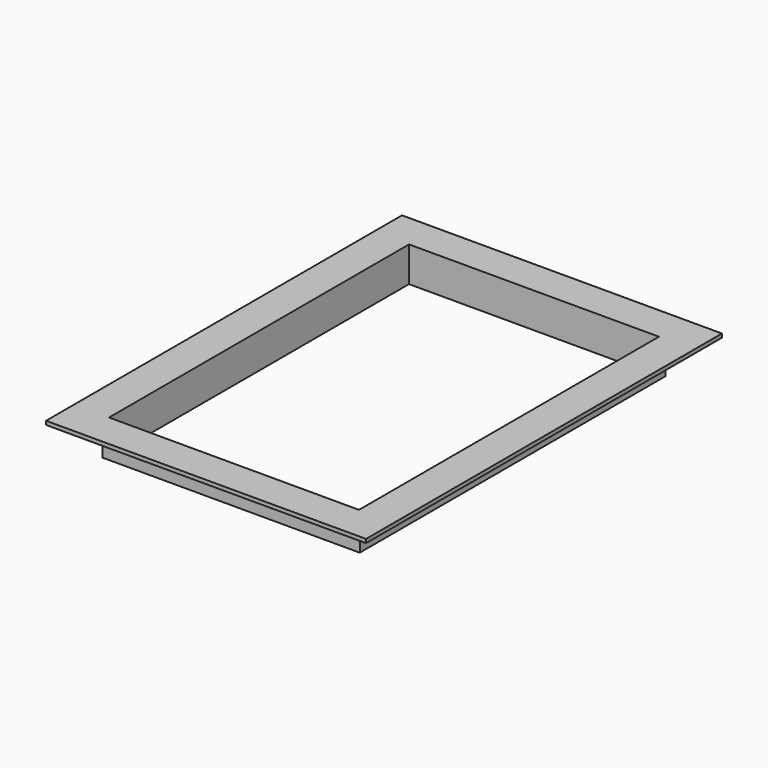
from build123d import *

# Parameters (mm, degrees)
SKETCH049_W  = 400
SKETCH049_H  = 60
PAD_DEPTH    = 300
SKETCH050_W  = 412
SKETCH050_H  = 50
PAD001_DEPTH = 306
SKETCH051_W  = 512
SKETCH051_H  = 712
PAD002_DEPTH = 6


with BuildPart() as body:
    # Sketch049 → Pad (new body, symmetric)
    with BuildSketch(Plane.XZ):
        with Locations((0, 30)):
            Rectangle(SKETCH049_W, SKETCH049_H)
    extrude(amount=PAD_DEPTH, both=True)


with BuildPart() as cut006:
    # Sketch050 → Pad001 (new body, symmetric)
    with BuildSketch(Plane.XZ):
        with Locations((0, 25)):
            Rectangle(SKETCH050_W, SKETCH050_H)
    extrude(amount=PAD001_DEPTH, both=True)

    # Sketch051 (on Face3 of Pad001) → Pad002 (join)
    with BuildSketch(Plane(origin=(0, 0, 50), x_dir=(-1, 0, 0), z_dir=(0, 0, 1))):
        Rectangle(SKETCH051_W, SKETCH051_H)
    extrude(amount=PAD002_DEPTH)

    # Cut006: cut Body
    add(body.part, mode=Mode.SUBTRACT)


solid = cut006.part
